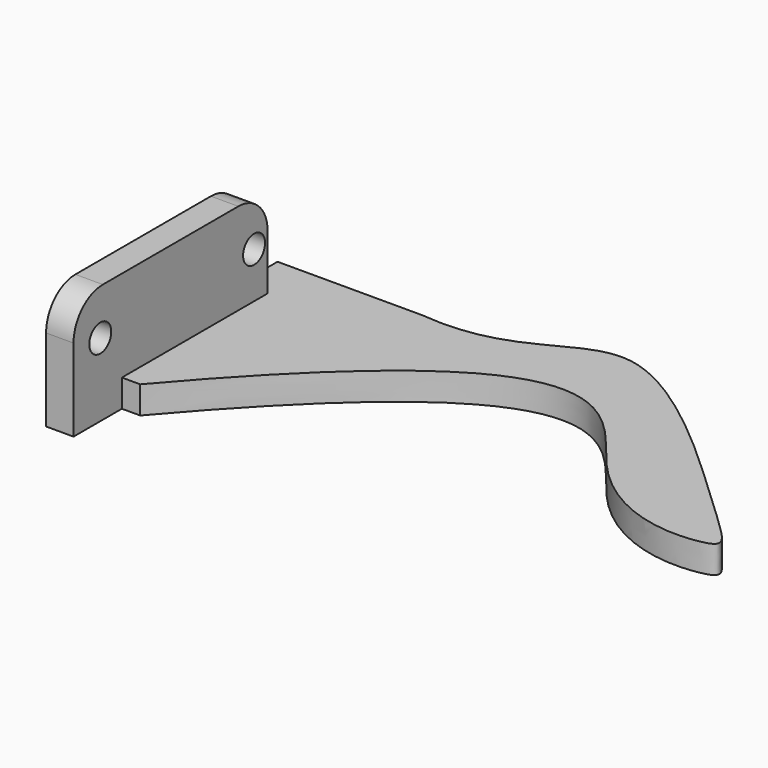
from build123d import *

# Parameters (mm, degrees)
PAD_DEPTH    = 3
PAD001_DEPTH = 3
SKETCH002_R  = 1.5
POCKET_DEPTH = 61.874428
FILLET_R     = 4


with BuildPart() as part:
    # Sketch → Pad (new body)
    with BuildSketch(Plane.XY):
        with BuildLine():
            Line((10.8033, 37.6), (-5, 37.6))
            Line((-5, 37.6), (-5, 12.6))
            Line((-5, 12.6), (0, 12.6))
            add(Edge.make_bspline(
                [(10.8033, 37.6), (21.753714, 36.470867), (26.809204, 50.139412), (55.640099, 22.088364), (59.450813, 19.464403), (39.919247, 18.728012), (28.864208, 46.419712), (0, 12.6)],
                knots=[0, 0, 0, 0, 0.2, 0.4, 0.6, 0.8, 1, 1, 1, 1], degree=3))
        make_face()
    extrude(amount=PAD_DEPTH)

    # Sketch004 → Pad001 (join)
    with BuildSketch(Plane(origin=(-5, 0, 0), x_dir=(0, -1, 0), z_dir=(-1, 0, 0))):
        Polygon((-6, 13), (-32.5, 13), (-32.5, 3), (-12.6, 3), (-12.6, 0), (-6, 0), align=None)
    extrude(amount=-PAD001_DEPTH)

    # Sketch002 → Pocket (cut, through all)
    with BuildSketch(Plane(origin=(-5, 0, 0), x_dir=(0, -1, 0), z_dir=(-1, 0, 0))):
        with Locations((-30.65, 8)):
            Circle(SKETCH002_R)
        with Locations((-9.65, 8)):
            Circle(SKETCH002_R)
    extrude(amount=-POCKET_DEPTH, mode=Mode.SUBTRACT)

    # Fillet
    fillet_edges = [part.edges().sort_by_distance(p)[0] for p in [
        (-3.5, 6, 13),
        (-3.5, 32.5, 13),
    ]]
    fillet(fillet_edges, radius=FILLET_R)


solid = part.part
